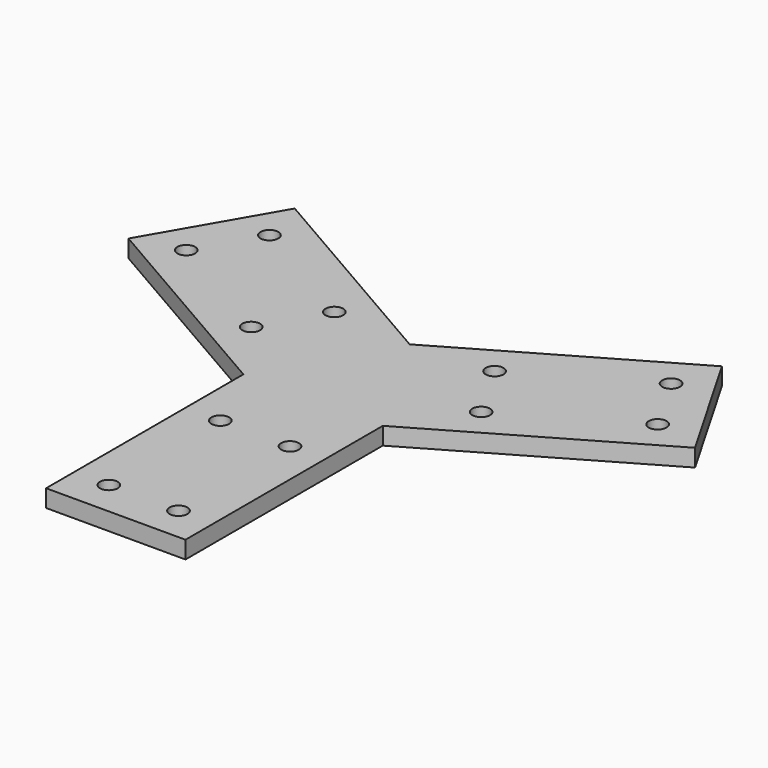
from build123d import *

# Parameters (mm, degrees)
F0_R     = 2.55
F1_DEPTH = 5


with BuildPart() as f1:
    # F0 (on Top) → F1 (new body)
    with BuildSketch(Plane.XY):
        Polygon((-61.291651, 58.480762), (-81.291651, 23.839746), (-20, -11.547005), (-20, -82.320508), (20, -82.320508), (20, -11.547005), (81.291651, 23.839746), (61.291651, 58.480762), (0, 23.094011), align=None)
        with Locations((-10, -72.320508)):
            Circle(F0_R, mode=Mode.SUBTRACT)
        with Locations((-10, -32.320508)):
            Circle(F0_R, mode=Mode.SUBTRACT)
        with Locations((10, -72.320508)):
            Circle(F0_R, mode=Mode.SUBTRACT)
        with Locations((10, -32.320508)):
            Circle(F0_R, mode=Mode.SUBTRACT)
        with Locations((-67.631397, 27.5)):
            Circle(F0_R, mode=Mode.SUBTRACT)
        with Locations((-32.990381, 7.5)):
            Circle(F0_R, mode=Mode.SUBTRACT)
        with Locations((-22.990381, 24.820508)):
            Circle(F0_R, mode=Mode.SUBTRACT)
        with Locations((-57.631397, 44.820508)):
            Circle(F0_R, mode=Mode.SUBTRACT)
        with Locations((32.990381, 7.5)):
            Circle(F0_R, mode=Mode.SUBTRACT)
        with Locations((22.990381, 24.820508)):
            Circle(F0_R, mode=Mode.SUBTRACT)
        with Locations((67.631397, 27.5)):
            Circle(F0_R, mode=Mode.SUBTRACT)
        with Locations((57.631397, 44.820508)):
            Circle(F0_R, mode=Mode.SUBTRACT)
    extrude(amount=F1_DEPTH)


solid = f1.part
